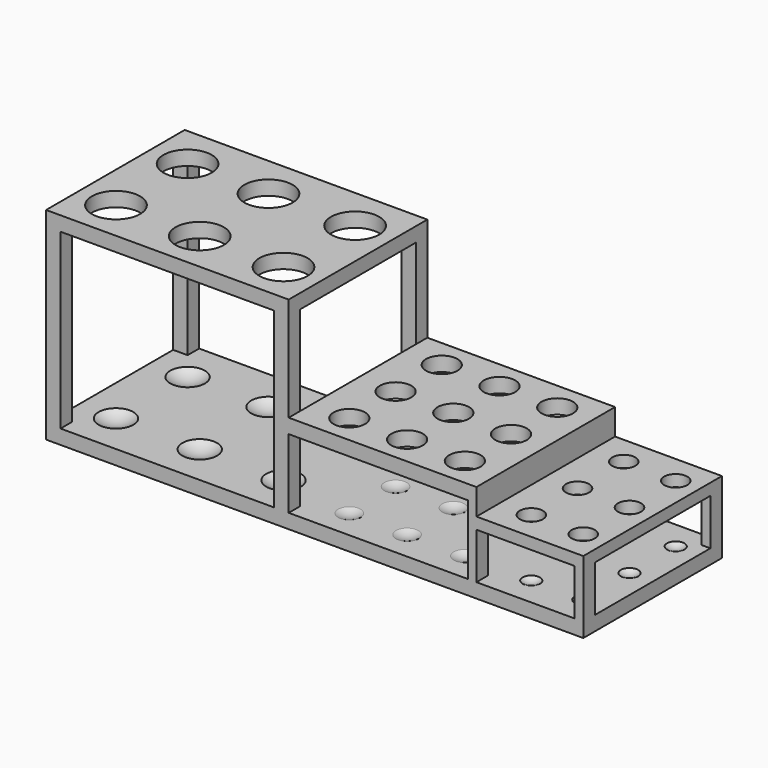
from build123d import *

# Parameters (mm, degrees)
CYLINDER020_R     = 4
CYLINDER020_DEPTH = 30
CYLINDER019_R     = 4
CYLINDER019_DEPTH = 30
CYLINDER018_R     = 4
CYLINDER018_DEPTH = 30
CYLINDER017_R     = 4
CYLINDER017_DEPTH = 30
CYLINDER015_R     = 4
CYLINDER015_DEPTH = 30
CYLINDER016_R     = 4
CYLINDER016_DEPTH = 30
BOX010_W          = 50
BOX010_H          = 60
BOX010_DEPTH      = 10
BOX008_W          = 70
BOX008_H          = 34
BOX008_DEPTH      = 16
BOX007_W          = 50
BOX007_H          = 50
BOX007_DEPTH      = 16
CYLINDER006_R     = 5.45
CYLINDER006_DEPTH = 60
CYLINDER008_R     = 5.45
CYLINDER008_DEPTH = 60
CYLINDER007_R     = 5.45
CYLINDER007_DEPTH = 60
CYLINDER011_R     = 5.45
CYLINDER011_DEPTH = 60
CYLINDER010_R     = 5.45
CYLINDER010_DEPTH = 60
CYLINDER009_R     = 5.45
CYLINDER009_DEPTH = 60
CYLINDER014_R     = 5.45
CYLINDER014_DEPTH = 60
CYLINDER013_R     = 5.45
CYLINDER013_DEPTH = 60
CYLINDER012_R     = 5.45
CYLINDER012_DEPTH = 60
BOX006_W          = 64
BOX006_H          = 80
BOX006_DEPTH      = 24
BOX009_W          = 75
BOX009_H          = 50
BOX009_DEPTH      = 24
BOX003_W          = 102
BOX003_H          = 60
BOX003_DEPTH      = 34
BOX001_W          = 74
BOX001_H          = 70
BOX001_DEPTH      = 60
BOX002_W          = 100
BOX002_H          = 50
BOX002_DEPTH      = 60
CYLINDER_R        = 8.35
CYLINDER_DEPTH    = 80
CYLINDER003_R     = 8.35
CYLINDER003_DEPTH = 80
CYLINDER004_R     = 8.35
CYLINDER004_DEPTH = 80
CYLINDER005_R     = 8.35
CYLINDER005_DEPTH = 80
CYLINDER002_R     = 8.35
CYLINDER002_DEPTH = 80
CYLINDER001_R     = 8.35
CYLINDER001_DEPTH = 80
BOX_W             = 84
BOX_H             = 60
BOX_DEPTH         = 70


with BuildPart() as sphere018:
    # Sphere018 → Sphere018 (revolve)
    with BuildSketch(Plane(origin=(178, 10, 9), x_dir=(1, 0, 0), z_dir=(0, -1, 0))):
        with BuildLine():
            ThreePointArc((0, -5), (5, 0), (0, 5))
            Line((0, 5), (0, -5))
        make_face()
    revolve(axis=Axis((178, 10, 9), (0, 0, 1)))


with BuildPart() as sphere020:
    # Sphere020 → Sphere020 (revolve)
    with BuildSketch(Plane(origin=(178, 30, 9), x_dir=(1, 0, 0), z_dir=(0, -1, 0))):
        with BuildLine():
            ThreePointArc((0, -5), (5, 0), (0, 5))
            Line((0, 5), (0, -5))
        make_face()
    revolve(axis=Axis((178, 30, 9), (0, 0, 1)))


with BuildPart() as sphere019:
    # Sphere019 → Sphere019 (revolve)
    with BuildSketch(Plane(origin=(178, 50, 9), x_dir=(1, 0, 0), z_dir=(0, -1, 0))):
        with BuildLine():
            ThreePointArc((0, -5), (5, 0), (0, 5))
            Line((0, 5), (0, -5))
        make_face()
    revolve(axis=Axis((178, 50, 9), (0, 0, 1)))


with BuildPart() as sphere016:
    # Sphere016 → Sphere016 (revolve)
    with BuildSketch(Plane(origin=(160, 50, 9), x_dir=(1, 0, 0), z_dir=(0, -1, 0))):
        with BuildLine():
            ThreePointArc((0, -5), (5, 0), (0, 5))
            Line((0, 5), (0, -5))
        make_face()
    revolve(axis=Axis((160, 50, 9), (0, 0, 1)))


with BuildPart() as sphere017:
    # Sphere017 → Sphere017 (revolve)
    with BuildSketch(Plane(origin=(160, 30, 9), x_dir=(1, 0, 0), z_dir=(0, -1, 0))):
        with BuildLine():
            ThreePointArc((0, -5), (5, 0), (0, 5))
            Line((0, 5), (0, -5))
        make_face()
    revolve(axis=Axis((160, 30, 9), (0, 0, 1)))


with BuildPart() as sphere015:
    # Sphere015 → Sphere015 (revolve)
    with BuildSketch(Plane(origin=(160, 10, 9), x_dir=(1, 0, 0), z_dir=(0, -1, 0))):
        with BuildLine():
            ThreePointArc((0, -5), (5, 0), (0, 5))
            Line((0, 5), (0, -5))
        make_face()
    revolve(axis=Axis((160, 10, 9), (0, 0, 1)))


with BuildPart() as sphere012:
    # Sphere012 → Sphere012 (revolve)
    with BuildSketch(Plane(origin=(137, 50, 12), x_dir=(1, 0, 0), z_dir=(0, -1, 0))):
        with BuildLine():
            ThreePointArc((0, -8), (8, 0), (0, 8))
            Line((0, 8), (0, -8))
        make_face()
    revolve(axis=Axis((137, 50, 12), (0, 0, 1)))


with BuildPart() as sphere011:
    # Sphere011 → Sphere011 (revolve)
    with BuildSketch(Plane(origin=(137, 30, 12), x_dir=(1, 0, 0), z_dir=(0, -1, 0))):
        with BuildLine():
            ThreePointArc((0, -8), (8, 0), (0, 8))
            Line((0, 8), (0, -8))
        make_face()
    revolve(axis=Axis((137, 30, 12), (0, 0, 1)))


with BuildPart() as sphere008:
    # Sphere008 → Sphere008 (revolve)
    with BuildSketch(Plane(origin=(137, 10, 12), x_dir=(1, 0, 0), z_dir=(0, -1, 0))):
        with BuildLine():
            ThreePointArc((0, -8), (8, 0), (0, 8))
            Line((0, 8), (0, -8))
        make_face()
    revolve(axis=Axis((137, 10, 12), (0, 0, 1)))


with BuildPart() as sphere013:
    # Sphere013 → Sphere013 (revolve)
    with BuildSketch(Plane(origin=(117, 50, 12), x_dir=(1, 0, 0), z_dir=(0, -1, 0))):
        with BuildLine():
            ThreePointArc((0, -8), (8, 0), (0, 8))
            Line((0, 8), (0, -8))
        make_face()
    revolve(axis=Axis((117, 50, 12), (0, 0, 1)))


with BuildPart() as sphere010:
    # Sphere010 → Sphere010 (revolve)
    with BuildSketch(Plane(origin=(117, 30, 12), x_dir=(1, 0, 0), z_dir=(0, -1, 0))):
        with BuildLine():
            ThreePointArc((0, -8), (8, 0), (0, 8))
            Line((0, 8), (0, -8))
        make_face()
    revolve(axis=Axis((117, 30, 12), (0, 0, 1)))


with BuildPart() as sphere007:
    # Sphere007 → Sphere007 (revolve)
    with BuildSketch(Plane(origin=(117, 10, 12), x_dir=(1, 0, 0), z_dir=(0, -1, 0))):
        with BuildLine():
            ThreePointArc((0, -8), (8, 0), (0, 8))
            Line((0, 8), (0, -8))
        make_face()
    revolve(axis=Axis((117, 10, 12), (0, 0, 1)))


with BuildPart() as sphere014:
    # Sphere014 → Sphere014 (revolve)
    with BuildSketch(Plane(origin=(97, 50, 12), x_dir=(1, 0, 0), z_dir=(0, -1, 0))):
        with BuildLine():
            ThreePointArc((0, -8), (8, 0), (0, 8))
            Line((0, 8), (0, -8))
        make_face()
    revolve(axis=Axis((97, 50, 12), (0, 0, 1)))


with BuildPart() as sphere009:
    # Sphere009 → Sphere009 (revolve)
    with BuildSketch(Plane(origin=(97, 30, 12), x_dir=(1, 0, 0), z_dir=(0, -1, 0))):
        with BuildLine():
            ThreePointArc((0, -8), (8, 0), (0, 8))
            Line((0, 8), (0, -8))
        make_face()
    revolve(axis=Axis((97, 30, 12), (0, 0, 1)))


with BuildPart() as sphere006:
    # Sphere006 → Sphere006 (revolve)
    with BuildSketch(Plane(origin=(97, 10, 12), x_dir=(1, 0, 0), z_dir=(0, -1, 0))):
        with BuildLine():
            ThreePointArc((0, -8), (8, 0), (0, 8))
            Line((0, 8), (0, -8))
        make_face()
    revolve(axis=Axis((97, 10, 12), (0, 0, 1)))


with BuildPart() as cylinder020:
    # Cylinder020 → Cylinder020 (new body)
    with BuildSketch(Plane(origin=(178, 50, 16), x_dir=(1, 0, 0), z_dir=(0, 0, 1))):
        Circle(CYLINDER020_R)
    extrude(amount=CYLINDER020_DEPTH)


with BuildPart() as cylinder019:
    # Cylinder019 → Cylinder019 (new body)
    with BuildSketch(Plane(origin=(160, 50, 16), x_dir=(1, 0, 0), z_dir=(0, 0, 1))):
        Circle(CYLINDER019_R)
    extrude(amount=CYLINDER019_DEPTH)


with BuildPart() as cylinder018:
    # Cylinder018 → Cylinder018 (new body)
    with BuildSketch(Plane(origin=(178, 30, 16), x_dir=(1, 0, 0), z_dir=(0, 0, 1))):
        Circle(CYLINDER018_R)
    extrude(amount=CYLINDER018_DEPTH)


with BuildPart() as cylinder017:
    # Cylinder017 → Cylinder017 (new body)
    with BuildSketch(Plane(origin=(160, 30, 16), x_dir=(1, 0, 0), z_dir=(0, 0, 1))):
        Circle(CYLINDER017_R)
    extrude(amount=CYLINDER017_DEPTH)


with BuildPart() as cylinder015:
    # Cylinder015 → Cylinder015 (new body)
    with BuildSketch(Plane(origin=(160, 10, 16), x_dir=(1, 0, 0), z_dir=(0, 0, 1))):
        Circle(CYLINDER015_R)
    extrude(amount=CYLINDER015_DEPTH)


with BuildPart() as cylinder016:
    # Cylinder016 → Cylinder016 (new body)
    with BuildSketch(Plane(origin=(178, 10, 16), x_dir=(1, 0, 0), z_dir=(0, 0, 1))):
        Circle(CYLINDER016_R)
    extrude(amount=CYLINDER016_DEPTH)


with BuildPart() as cube010:
    # Box010 → Box010 (new body)
    with BuildSketch(Plane(origin=(149, 0, 25), x_dir=(1, 0, 0), z_dir=(0, 0, 1))):
        with Locations((25, 30)):
            Rectangle(BOX010_W, BOX010_H)
    extrude(amount=BOX010_DEPTH)


with BuildPart() as cube008:
    # Box008 → Box008 (new body)
    with BuildSketch(Plane(origin=(183, -3, 5), x_dir=(0, 1, 0), z_dir=(0, 0, 1))):
        with Locations((35, 17)):
            Rectangle(BOX008_W, BOX008_H)
    extrude(amount=BOX008_DEPTH)


with BuildPart() as cube007:
    # Box007 → Box007 (new body)
    with BuildSketch(Plane(origin=(142, 5, 5), x_dir=(1, 0, 0), z_dir=(0, 0, 1))):
        with Locations((25, 25)):
            Rectangle(BOX007_W, BOX007_H)
    extrude(amount=BOX007_DEPTH)


with BuildPart() as cylinder006:
    # Cylinder006 → Cylinder006 (new body)
    with BuildSketch(Plane(origin=(97, 10, 8), x_dir=(1, 0, 0), z_dir=(0, 0, 1))):
        Circle(CYLINDER006_R)
    extrude(amount=CYLINDER006_DEPTH)


with BuildPart() as cylinder008:
    # Cylinder008 → Cylinder008 (new body)
    with BuildSketch(Plane(origin=(97, 30, 9), x_dir=(1, 0, 0), z_dir=(0, 0, 1))):
        Circle(CYLINDER008_R)
    extrude(amount=CYLINDER008_DEPTH)


with BuildPart() as cylinder007:
    # Cylinder007 → Cylinder007 (new body)
    with BuildSketch(Plane(origin=(97, 50, 8), x_dir=(1, 0, 0), z_dir=(0, 0, 1))):
        Circle(CYLINDER007_R)
    extrude(amount=CYLINDER007_DEPTH)


with BuildPart() as cylinder011:
    # Cylinder011 → Cylinder011 (new body)
    with BuildSketch(Plane(origin=(117, 10, 9), x_dir=(1, 0, 0), z_dir=(0, 0, 1))):
        Circle(CYLINDER011_R)
    extrude(amount=CYLINDER011_DEPTH)


with BuildPart() as cylinder010:
    # Cylinder010 → Cylinder010 (new body)
    with BuildSketch(Plane(origin=(117, 30, 9), x_dir=(1, 0, 0), z_dir=(0, 0, 1))):
        Circle(CYLINDER010_R)
    extrude(amount=CYLINDER010_DEPTH)


with BuildPart() as cylinder009:
    # Cylinder009 → Cylinder009 (new body)
    with BuildSketch(Plane(origin=(117, 50, 9), x_dir=(1, 0, 0), z_dir=(0, 0, 1))):
        Circle(CYLINDER009_R)
    extrude(amount=CYLINDER009_DEPTH)


with BuildPart() as cylinder014:
    # Cylinder014 → Cylinder014 (new body)
    with BuildSketch(Plane(origin=(137, 10, 10), x_dir=(1, 0, 0), z_dir=(0, 0, 1))):
        Circle(CYLINDER014_R)
    extrude(amount=CYLINDER014_DEPTH)


with BuildPart() as cylinder013:
    # Cylinder013 → Cylinder013 (new body)
    with BuildSketch(Plane(origin=(137, 30, 9), x_dir=(1, 0, 0), z_dir=(0, 0, 1))):
        Circle(CYLINDER013_R)
    extrude(amount=CYLINDER013_DEPTH)


with BuildPart() as cylinder012:
    # Cylinder012 → Cylinder012 (new body)
    with BuildSketch(Plane(origin=(137, 50, 9), x_dir=(1, 0, 0), z_dir=(0, 0, 1))):
        Circle(CYLINDER012_R)
    extrude(amount=CYLINDER012_DEPTH)


with BuildPart() as cube006:
    # Box006 → Box006 (new body)
    with BuildSketch(Plane(origin=(82, -5, 5), x_dir=(1, 0, 0), z_dir=(0, 0, 1))):
        with Locations((32, 40)):
            Rectangle(BOX006_W, BOX006_H)
    extrude(amount=BOX006_DEPTH)


with BuildPart() as cube009:
    # Box009 → Box009 (new body)
    with BuildSketch(Plane(origin=(71, 5, 5), x_dir=(1, 0, 0), z_dir=(0, 0, 1))):
        with Locations((37.5, 25)):
            Rectangle(BOX009_W, BOX009_H)
    extrude(amount=BOX009_DEPTH)


with BuildPart() as cut048:
    # Box003 → Box003 (new body)
    with BuildSketch(Plane(origin=(84, 0, 0), x_dir=(1, 0, 0), z_dir=(0, 0, 1))):
        with Locations((51, 30)):
            Rectangle(BOX003_W, BOX003_H)
    extrude(amount=BOX003_DEPTH)

    # Cut008: cut Cube009
    add(cube009.part, mode=Mode.SUBTRACT)

    # Cut009: cut Cube006
    add(cube006.part, mode=Mode.SUBTRACT)

    # Cut010: cut Cylinder012
    add(cylinder012.part, mode=Mode.SUBTRACT)

    # Cut011: cut Cylinder013
    add(cylinder013.part, mode=Mode.SUBTRACT)

    # Cut012: cut Cylinder014
    add(cylinder014.part, mode=Mode.SUBTRACT)

    # Cut013: cut Cylinder009
    add(cylinder009.part, mode=Mode.SUBTRACT)

    # Cut014: cut Cylinder010
    add(cylinder010.part, mode=Mode.SUBTRACT)

    # Cut015: cut Cylinder011
    add(cylinder011.part, mode=Mode.SUBTRACT)

    # Cut016: cut Cylinder007
    add(cylinder007.part, mode=Mode.SUBTRACT)

    # Cut017: cut Cylinder008
    add(cylinder008.part, mode=Mode.SUBTRACT)

    # Cut018: cut Cylinder006
    add(cylinder006.part, mode=Mode.SUBTRACT)

    # Cut019: cut Cube007
    add(cube007.part, mode=Mode.SUBTRACT)

    # Cut020: cut Cube008
    add(cube008.part, mode=Mode.SUBTRACT)

    # Cut021: cut Cube010
    add(cube010.part, mode=Mode.SUBTRACT)

    # Cut022: cut Cylinder016
    add(cylinder016.part, mode=Mode.SUBTRACT)

    # Cut023: cut Cylinder015
    add(cylinder015.part, mode=Mode.SUBTRACT)

    # Cut024: cut Cylinder017
    add(cylinder017.part, mode=Mode.SUBTRACT)

    # Cut025: cut Cylinder018
    add(cylinder018.part, mode=Mode.SUBTRACT)

    # Cut026: cut Cylinder019
    add(cylinder019.part, mode=Mode.SUBTRACT)

    # Cut027: cut Cylinder020
    add(cylinder020.part, mode=Mode.SUBTRACT)

    # Cut034: cut Sphere006
    add(sphere006.part, mode=Mode.SUBTRACT)

    # Cut035: cut Sphere009
    add(sphere009.part, mode=Mode.SUBTRACT)

    # Cut036: cut Sphere014
    add(sphere014.part, mode=Mode.SUBTRACT)

    # Cut037: cut Sphere007
    add(sphere007.part, mode=Mode.SUBTRACT)

    # Cut038: cut Sphere010
    add(sphere010.part, mode=Mode.SUBTRACT)

    # Cut039: cut Sphere013
    add(sphere013.part, mode=Mode.SUBTRACT)

    # Cut040: cut Sphere008
    add(sphere008.part, mode=Mode.SUBTRACT)

    # Cut041: cut Sphere011
    add(sphere011.part, mode=Mode.SUBTRACT)

    # Cut042: cut Sphere012
    add(sphere012.part, mode=Mode.SUBTRACT)

    # Cut043: cut Sphere015
    add(sphere015.part, mode=Mode.SUBTRACT)

    # Cut044: cut Sphere017
    add(sphere017.part, mode=Mode.SUBTRACT)

    # Cut045: cut Sphere016
    add(sphere016.part, mode=Mode.SUBTRACT)

    # Cut046: cut Sphere019
    add(sphere019.part, mode=Mode.SUBTRACT)

    # Cut047: cut Sphere020
    add(sphere020.part, mode=Mode.SUBTRACT)

    # Cut048: cut Sphere018
    add(sphere018.part, mode=Mode.SUBTRACT)


with BuildPart() as sphere005:
    # Sphere005 → Sphere005 (revolve)
    with BuildSketch(Plane(origin=(71, 45, 13), x_dir=(1, 0, 0), z_dir=(0, -1, 0))):
        with BuildLine():
            ThreePointArc((0, -10), (10, 0), (0, 10))
            Line((0, 10), (0, -10))
        make_face()
    revolve(axis=Axis((71, 45, 13), (0, 0, 1)))


with BuildPart() as sphere004:
    # Sphere004 → Sphere004 (revolve)
    with BuildSketch(Plane(origin=(41, 45, 13), x_dir=(1, 0, 0), z_dir=(0, -1, 0))):
        with BuildLine():
            ThreePointArc((0, -10), (10, 0), (0, 10))
            Line((0, 10), (0, -10))
        make_face()
    revolve(axis=Axis((41, 45, 13), (0, 0, 1)))


with BuildPart() as sphere003:
    # Sphere003 → Sphere003 (revolve)
    with BuildSketch(Plane(origin=(13, 45, 13), x_dir=(1, 0, 0), z_dir=(0, -1, 0))):
        with BuildLine():
            ThreePointArc((0, -10), (10, 0), (0, 10))
            Line((0, 10), (0, -10))
        make_face()
    revolve(axis=Axis((13, 45, 13), (0, 0, 1)))


with BuildPart() as sphere002:
    # Sphere002 → Sphere002 (revolve)
    with BuildSketch(Plane(origin=(71, 14, 13), x_dir=(1, 0, 0), z_dir=(0, -1, 0))):
        with BuildLine():
            ThreePointArc((0, -10), (10, 0), (0, 10))
            Line((0, 10), (0, -10))
        make_face()
    revolve(axis=Axis((71, 14, 13), (0, 0, 1)))


with BuildPart() as sphere001:
    # Sphere001 → Sphere001 (revolve)
    with BuildSketch(Plane(origin=(42, 14, 13), x_dir=(1, 0, 0), z_dir=(0, -1, 0))):
        with BuildLine():
            ThreePointArc((0, -10), (10, 0), (0, 10))
            Line((0, 10), (0, -10))
        make_face()
    revolve(axis=Axis((42, 14, 13), (0, 0, 1)))


with BuildPart() as sphere:
    # Sphere → Sphere (revolve)
    with BuildSketch(Plane(origin=(13, 14, 13), x_dir=(1, 0, 0), z_dir=(0, -1, 0))):
        with BuildLine():
            ThreePointArc((0, -10), (10, 0), (0, 10))
            Line((0, 10), (0, -10))
        make_face()
    revolve(axis=Axis((13, 14, 13), (0, 0, 1)))


with BuildPart() as cube001:
    # Box001 → Box001 (new body)
    with BuildSketch(Plane(origin=(5, -4, 5), x_dir=(1, 0, 0), z_dir=(0, 0, 1))):
        with Locations((37, 35)):
            Rectangle(BOX001_W, BOX001_H)
    extrude(amount=BOX001_DEPTH)


with BuildPart() as cube002:
    # Box002 → Box002 (new body)
    with BuildSketch(Plane(origin=(-5, 5, 5), x_dir=(1, 0, 0), z_dir=(0, 0, 1))):
        with Locations((50, 25)):
            Rectangle(BOX002_W, BOX002_H)
    extrude(amount=BOX002_DEPTH)


with BuildPart() as cylinder:
    # Cylinder → Cylinder (new body)
    with BuildSketch(Plane(origin=(13, 14, 6), x_dir=(1, 0, 0), z_dir=(0, 0, 1))):
        Circle(CYLINDER_R)
    extrude(amount=CYLINDER_DEPTH)


with BuildPart() as cylinder003:
    # Cylinder003 → Cylinder003 (new body)
    with BuildSketch(Plane(origin=(13, 45, 6), x_dir=(1, 0, 0), z_dir=(0, 0, 1))):
        Circle(CYLINDER003_R)
    extrude(amount=CYLINDER003_DEPTH)


with BuildPart() as cylinder004:
    # Cylinder004 → Cylinder004 (new body)
    with BuildSketch(Plane(origin=(41, 45, 6), x_dir=(1, 0, 0), z_dir=(0, 0, 1))):
        Circle(CYLINDER004_R)
    extrude(amount=CYLINDER004_DEPTH)


with BuildPart() as cylinder005:
    # Cylinder005 → Cylinder005 (new body)
    with BuildSketch(Plane(origin=(71, 45, 6), x_dir=(1, 0, 0), z_dir=(0, 0, 1))):
        Circle(CYLINDER005_R)
    extrude(amount=CYLINDER005_DEPTH)


with BuildPart() as cylinder002:
    # Cylinder002 → Cylinder002 (new body)
    with BuildSketch(Plane(origin=(71, 14, 7), x_dir=(1, 0, 0), z_dir=(0, 0, 1))):
        Circle(CYLINDER002_R)
    extrude(amount=CYLINDER002_DEPTH)


with BuildPart() as cylinder001:
    # Cylinder001 → Cylinder001 (new body)
    with BuildSketch(Plane(origin=(42, 14, 6), x_dir=(1, 0, 0), z_dir=(0, 0, 1))):
        Circle(CYLINDER001_R)
    extrude(amount=CYLINDER001_DEPTH)


with BuildPart() as fusion:
    # Box → Box (new body)
    with BuildSketch(Plane.XY):
        with Locations((42, 30)):
            Rectangle(BOX_W, BOX_H)
    extrude(amount=BOX_DEPTH)

    # Cut: cut Cylinder001
    add(cylinder001.part, mode=Mode.SUBTRACT)

    # Cut001: cut Cylinder002
    add(cylinder002.part, mode=Mode.SUBTRACT)

    # Cut002: cut Cylinder005
    add(cylinder005.part, mode=Mode.SUBTRACT)

    # Cut003: cut Cylinder004
    add(cylinder004.part, mode=Mode.SUBTRACT)

    # Cut004: cut Cylinder003
    add(cylinder003.part, mode=Mode.SUBTRACT)

    # Cut005: cut Cylinder
    add(cylinder.part, mode=Mode.SUBTRACT)

    # Cut006: cut Cube002
    add(cube002.part, mode=Mode.SUBTRACT)

    # Cut007: cut Cube001
    add(cube001.part, mode=Mode.SUBTRACT)

    # Cut028: cut Sphere
    add(sphere.part, mode=Mode.SUBTRACT)

    # Cut029: cut Sphere001
    add(sphere001.part, mode=Mode.SUBTRACT)

    # Cut030: cut Sphere002
    add(sphere002.part, mode=Mode.SUBTRACT)

    # Cut031: cut Sphere003
    add(sphere003.part, mode=Mode.SUBTRACT)

    # Cut032: cut Sphere004
    add(sphere004.part, mode=Mode.SUBTRACT)

    # Cut033: cut Sphere005
    add(sphere005.part, mode=Mode.SUBTRACT)

    # Fusion: union Cut048
    add(cut048.part)


solid = fusion.part
